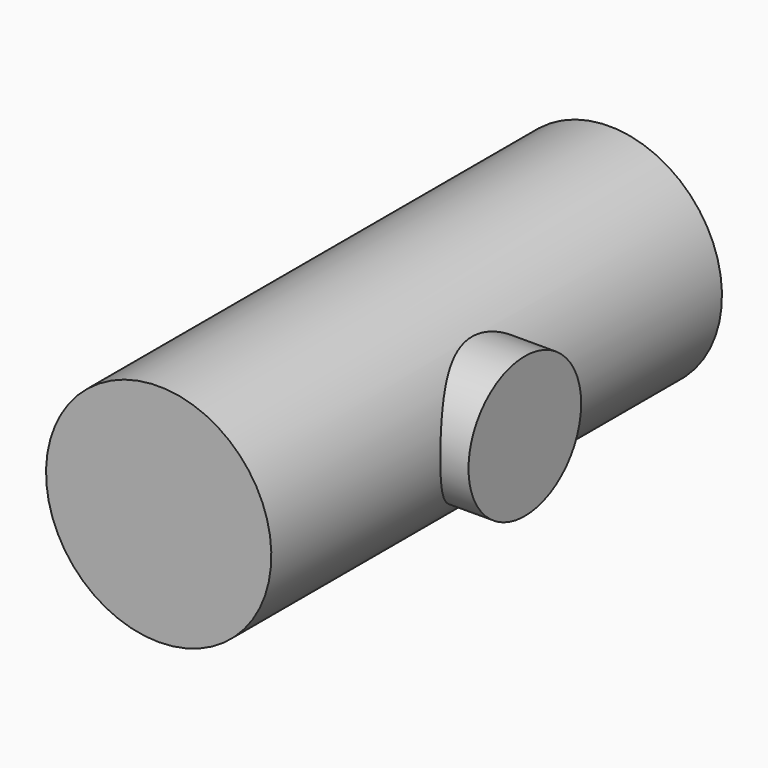
from build123d import *

# Parameters (mm, degrees)
F0_W     = 10
F0_H     = 2
F2_R     = 1.25
F3_DEPTH = 2.5


with BuildPart() as f1:
    # F0 (on Right) → F1 (revolve)
    with BuildSketch(Plane.YZ):
        with Locations((0, -1)):
            Rectangle(F0_W, F0_H)
    revolve(axis=Axis((0, 5, 0), (0, 1, 0)))

    # F2 (on Right) → F3 (join)
    with BuildSketch(Plane.YZ):
        Circle(F2_R)
    extrude(amount=F3_DEPTH)


solid = f1.part
